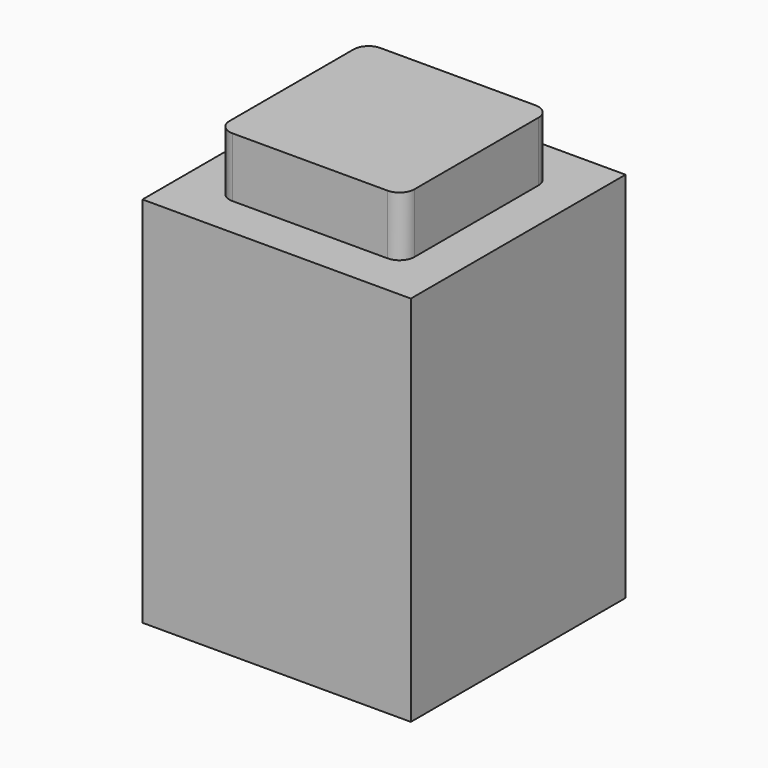
from build123d import *

# Parameters (mm, degrees)
F0_W     = 18
F0_H     = 18
F1_DEPTH = 25
F2_W     = 12.4
F2_H     = 12.4
F3_DEPTH = 4
F4_W     = 15
F4_H     = 15
F5_DEPTH = 15
F6_W     = 10.6
F6_H     = 10.6
F7_DEPTH = 11
F8_R     = 1


with BuildPart() as f1:
    # F0 (on Top) → F1 (new body)
    with BuildSketch(Plane.XY):
        Rectangle(F0_W, F0_H)
    extrude(amount=F1_DEPTH)

    # F2 (on face) → F3 (join)
    with BuildSketch(Plane.XY.offset(25)):
        Rectangle(F2_W, F2_H)
    extrude(amount=F3_DEPTH)

    # F4 (on face) → F5 (cut)
    with BuildSketch(Plane(origin=(0, 0, 0), x_dir=(1, 0, 0), z_dir=(0, 0, -1))):
        Rectangle(F4_W, F4_H)
    extrude(amount=-F5_DEPTH, mode=Mode.SUBTRACT)

    # F6 (on face) → F7 (cut)
    with BuildSketch(Plane(origin=(0, 0, 15), x_dir=(1, 0, 0), z_dir=(0, 0, -1))):
        Rectangle(F6_W, F6_H)
    extrude(amount=-F7_DEPTH, mode=Mode.SUBTRACT)

    # F8
    f8_edges = [f1.edges().sort_by_distance(p)[0] for p in [
        (6.2, -6.2, 27),
        (6.2, 6.2, 27),
        (-6.2, 6.2, 27),
        (-6.2, -6.2, 27),
    ]]
    fillet(f8_edges, radius=F8_R)


solid = f1.part
